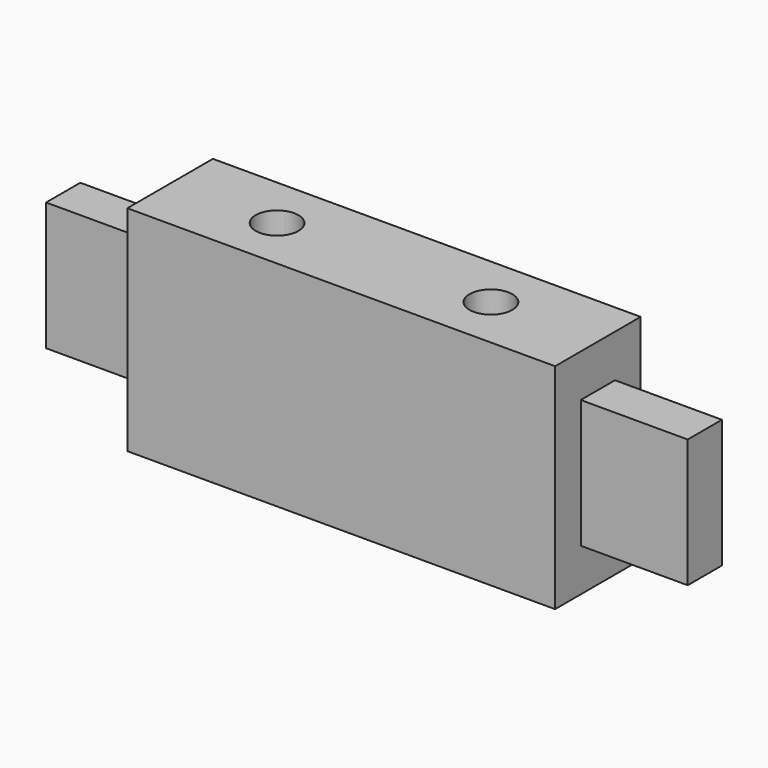
from build123d import *

# Parameters (mm, degrees)
F0_W     = 100
F0_H     = 50
F1_DEPTH = 25
F2_W     = 10
F2_H     = 30
F3_DEPTH = 25
F5_R     = 5
F6_DEPTH = 25


with BuildPart() as f1:
    # F0 (on Front) → F1 (new body)
    with BuildSketch(Plane.XZ):
        Rectangle(F0_W, F0_H)
    extrude(amount=F1_DEPTH)

    # F2 (on face) → F3 (join)
    with BuildSketch(Plane(origin=(-50, 0, 0), x_dir=(0, -1, 0), z_dir=(-1, 0, 0))):
        with Locations((12.5, 0)):
            Rectangle(F2_W, F2_H)
    extrude(amount=F3_DEPTH)

    # F4: F1 across plane


with BuildPart() as f1_1:
    add(f1.part)
    add(f1.part.mirror(Plane.YZ))

    # F5 (on face) → F6 (cut)
    with BuildSketch(Plane.XY.offset(25)):
        with Locations((-25, -12.5)):
            Circle(F5_R)
        with Locations((25, -12.5)):
            Circle(F5_R)
    extrude(amount=-F6_DEPTH, mode=Mode.SUBTRACT)


solid = f1_1.part
